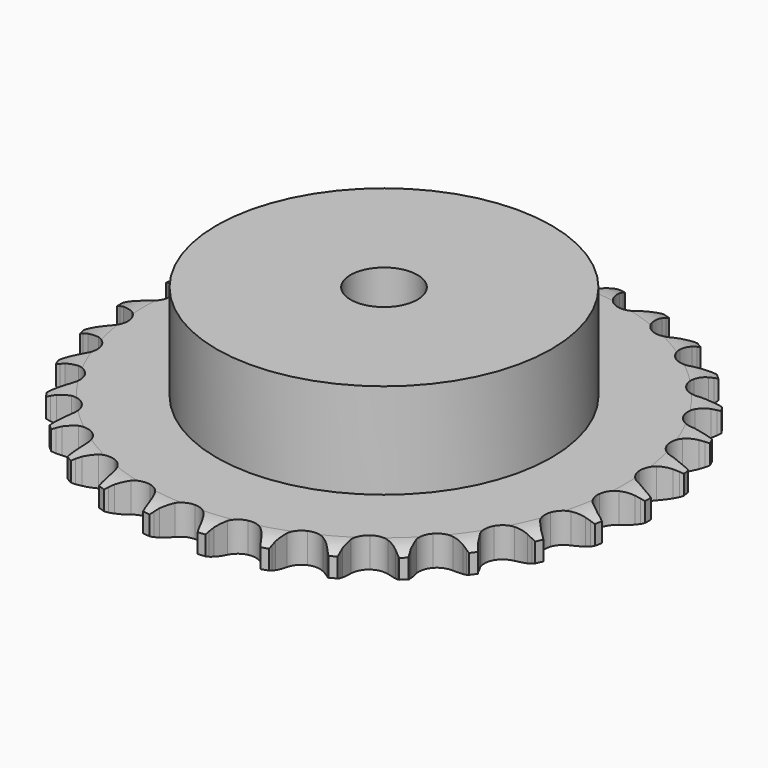
from build123d import *

# Parameters (mm, degrees)
PAD_DEPTH         = 7.2
SKETCH001_R       = 40
PAD001_DEPTH      = 30
SKETCH002_R       = 8
POCKET_DEPTH      = 0.001
POCKET_DEPTH_BACK = 30.001


with BuildPart() as part:
    # Sprocket → Pad (new body)
    with BuildSketch(Plane.XY):
        with BuildLine():
            ThreePointArc((-6.747514, 64.19831), (-5.953185, 63.151221), (-5.370742, 61.973039))
            Line((-5.370742, 61.973039), (-4.955769, 60.884432))
            ThreePointArc((-4.955769, 60.884432), (-4.297005, 59.465248), (-3.445613, 58.152548))
            ThreePointArc((-3.445613, 58.152548), (-1.925065, 56.887921), (0, 56.434629))
            ThreePointArc((0, 56.434629), (1.925065, 56.887921), (3.445613, 58.152548))
            ThreePointArc((3.445613, 58.152548), (4.297005, 59.465248), (4.955769, 60.884432))
            Line((4.955769, 60.884432), (5.370742, 61.973039))
            ThreePointArc((5.370742, 61.973039), (5.953185, 63.151221), (6.747514, 64.19831))
            ThreePointArc((6.747514, 64.19831), (7.306783, 63.008952), (7.631541, 61.735419))
            Line((7.631541, 61.735419), (7.811112, 60.584324))
            ThreePointArc((7.811112, 60.584324), (8.160415, 59.059188), (8.720276, 57.598159))
            ThreePointArc((8.720276, 57.598159), (9.944666, 56.045027), (11.733419, 55.201397))
            ThreePointArc((11.733419, 55.201397), (13.710661, 55.24454), (15.460913, 56.165392))
            Line((15.460913, 56.165392), (17.506058, 58.523599))
            ThreePointArc((17.506058, 58.523599), (17.809357, 59.021153), (18.138297, 59.502139))
            ThreePointArc((18.138297, 59.502139), (18.952971, 60.533479), (19.947644, 61.392536))
            ThreePointArc((19.947644, 61.392536), (20.24741, 60.11289), (20.300289, 58.799666))
            Line((20.300289, 58.799666), (20.23661, 57.636389))
            ThreePointArc((20.23661, 57.636389), (20.261186, 56.071957), (20.505048, 54.526453))
            ThreePointArc((20.505048, 54.526453), (21.379768, 52.752696), (22.954031, 51.555599))
            ThreePointArc((22.954031, 51.555599), (24.897036, 51.186708), (26.800496, 51.723539))
            Line((26.800496, 51.723539), (29.291249, 53.605004))
            ThreePointArc((29.291249, 53.605004), (29.691367, 54.028626), (30.113122, 54.430711))
            ThreePointArc((30.113122, 54.430711), (31.124421, 55.270133), (32.275966, 55.903613))
            ThreePointArc((32.275966, 55.903613), (32.303129, 54.589606), (32.081817, 53.294084))
            Line((32.081817, 53.294084), (31.77767, 52.169468))
            ThreePointArc((31.77767, 52.169468), (31.476446, 50.634113), (31.393651, 49.07168))
            ThreePointArc((31.393651, 49.07168), (31.880471, 47.15482), (33.171442, 45.656574))
            ThreePointArc((33.171442, 45.656574), (34.995291, 44.89177), (36.96877, 45.021119))
            Line((36.96877, 45.021119), (39.796272, 46.343613))
            ThreePointArc((39.796272, 46.343613), (40.275723, 46.674788), (40.77186, 46.980399))
            ThreePointArc((40.77186, 46.980399), (41.935584, 47.591217), (43.193674, 47.971434))
            ThreePointArc((43.193674, 47.971434), (42.947045, 46.680494), (42.461216, 45.459296))
            Line((42.461216, 45.459296), (41.929894, 44.422491))
            ThreePointArc((41.929894, 44.422491), (41.316034, 42.983315), (40.9102, 41.472239))
            ThreePointArc((40.9102, 41.472239), (40.987845, 39.496051), (41.939102, 37.762137))
            ThreePointArc((41.939102, 37.762137), (43.564084, 36.634847), (45.52133, 36.35106))
            Line((45.52133, 36.35106), (48.562007, 37.056783))
            ThreePointArc((48.562007, 37.056783), (49.099836, 37.281038), (49.648671, 37.476818))
            ThreePointArc((49.648671, 37.476818), (50.913962, 37.832336), (52.22361, 37.942674))
            ThreePointArc((52.22361, 37.942674), (51.713969, 36.73122), (50.984855, 35.637718))
            Line((50.984855, 35.637718), (50.249581, 34.734038))
            ThreePointArc((50.249581, 34.734038), (49.349913, 33.45394), (48.638777, 32.060262))
            ThreePointArc((48.638777, 32.060262), (48.303853, 30.111116), (48.873822, 28.217314))
            ThreePointArc((48.873822, 28.217314), (50.228917, 26.776806), (52.08439, 26.092286))
            Line((52.08439, 26.092286), (55.205349, 26.150395))
            ThreePointArc((55.205349, 26.150395), (55.77805, 26.257929), (56.355597, 26.335321))
            ThreePointArc((56.355597, 26.335321), (57.667154, 26.420001), (58.971124, 26.255636))
            ThreePointArc((58.971124, 26.255636), (58.220745, 25.176616), (57.280212, 24.258601))
            Line((57.280212, 24.258601), (56.373119, 23.52754))
            ThreePointArc((56.373119, 23.52754), (55.226964, 22.462467), (54.241607, 21.247098))
            ThreePointArc((54.241607, 21.247098), (53.50875, 19.41018), (53.672521, 17.439259))
            ThreePointArc((53.672521, 17.439259), (54.698506, 15.748489), (56.371113, 14.693153))
            Line((56.371113, 14.693153), (59.435953, 14.101108))
            ThreePointArc((59.435953, 14.101108), (60.018496, 14.087221), (60.599513, 14.042844))
            ThreePointArc((60.599513, 14.042844), (61.900016, 13.852985), (63.141318, 13.421101))
            ThreePointArc((63.141318, 13.421101), (62.182995, 12.521673), (61.072149, 11.819267))
            Line((61.072149, 11.819267), (60.032882, 11.292776))
            ThreePointArc((60.032882, 11.292776), (58.690332, 10.489277), (57.473818, 9.505334))
            ThreePointArc((57.473818, 9.505334), (56.375059, 7.860926), (56.125474, 5.899025))
            ThreePointArc((56.125474, 5.899025), (56.777507, 4.031888), (58.194147, 2.651859))
            Line((58.194147, 2.651859), (61.06892, 1.435536))
            ThreePointArc((61.06892, 1.435536), (61.635846, 1.300834), (62.19494, 1.136626))
            ThreePointArc((62.19494, 1.136626), (63.427549, 0.680527), (64.551932, 0))
            ThreePointArc((64.551932, 0), (63.427549, -0.680527), (62.19494, -1.136626))
            Line((62.19494, -1.136626), (61.06892, -1.435536))
            ThreePointArc((61.06892, -1.435536), (59.588651, -1.942345), (58.194147, -2.651859))
            ThreePointArc((58.194147, -2.651859), (56.777507, -4.031888), (56.125474, -5.899025))
            ThreePointArc((56.125474, -5.899025), (56.375059, -7.860926), (57.473818, -9.505334))
            Line((57.473818, -9.505334), (60.032882, -11.292776))
            ThreePointArc((60.032882, -11.292776), (60.559414, -11.542405), (61.072149, -11.819267))
            ThreePointArc((61.072149, -11.819267), (62.182995, -12.521673), (63.141318, -13.421101))
            ThreePointArc((63.141318, -13.421101), (61.900016, -13.852985), (60.599513, -14.042844))
            Line((60.599513, -14.042844), (59.435953, -14.101108))
            ThreePointArc((59.435953, -14.101108), (57.88266, -14.289077), (56.371113, -14.693153))
            ThreePointArc((56.371113, -14.693153), (54.698506, -15.748489), (53.672521, -17.439259))
            ThreePointArc((53.672521, -17.439259), (53.50875, -19.41018), (54.241607, -21.247098))
            Line((54.241607, -21.247098), (56.373119, -23.52754))
            ThreePointArc((56.373119, -23.52754), (56.836244, -23.881186), (57.280212, -24.258601))
            ThreePointArc((57.280212, -24.258601), (58.220745, -25.176616), (58.971124, -26.255636))
            ThreePointArc((58.971124, -26.255636), (57.667154, -26.420001), (56.355597, -26.335321))
            Line((56.355597, -26.335321), (55.205349, -26.150395))
            ThreePointArc((55.205349, -26.150395), (53.646919, -26.011308), (52.08439, -26.092286))
            ThreePointArc((52.08439, -26.092286), (50.228917, -26.776806), (48.873822, -28.217314))
            ThreePointArc((48.873822, -28.217314), (48.303853, -30.111116), (48.638777, -32.060262))
            Line((48.638777, -32.060262), (50.249581, -34.734038))
            ThreePointArc((50.249581, -34.734038), (50.629058, -35.176244), (50.984855, -35.637718))
            ThreePointArc((50.984855, -35.637718), (51.713969, -36.73122), (52.22361, -37.942674))
            ThreePointArc((52.22361, -37.942674), (50.913962, -37.832336), (49.648671, -37.476818))
            Line((49.648671, -37.476818), (48.562007, -37.056783))
            ThreePointArc((48.562007, -37.056783), (47.06655, -36.59672), (45.52133, -36.35106))
            ThreePointArc((45.52133, -36.35106), (43.564084, -36.634847), (41.939102, -37.762137))
            ThreePointArc((41.939102, -37.762137), (40.987845, -39.496051), (40.9102, -41.472239))
            Line((40.9102, -41.472239), (41.929894, -44.422491))
            ThreePointArc((41.929894, -44.422491), (42.209139, -44.933932), (42.461216, -45.459296))
            ThreePointArc((42.461216, -45.459296), (42.947045, -46.680494), (43.193674, -47.971434))
            ThreePointArc((43.193674, -47.971434), (41.935584, -47.591217), (40.77186, -46.980399))
            Line((40.77186, -46.980399), (39.796272, -46.343613))
            ThreePointArc((39.796272, -46.343613), (38.429146, -45.58268), (36.96877, -45.021119))
            ThreePointArc((36.96877, -45.021119), (34.995291, -44.89177), (33.171442, -45.656574))
            ThreePointArc((33.171442, -45.656574), (31.880471, -47.15482), (31.393651, -49.07168))
            Line((31.393651, -49.07168), (31.77767, -52.169468))
            ThreePointArc((31.77767, -52.169468), (31.944479, -52.727791), (32.081817, -53.294084))
            ThreePointArc((32.081817, -53.294084), (32.303129, -54.589606), (32.275966, -55.903613))
            ThreePointArc((32.275966, -55.903613), (31.124421, -55.270133), (30.113122, -54.430711))
            Line((30.113122, -54.430711), (29.291249, -53.605004))
            ThreePointArc((29.291249, -53.605004), (28.112205, -52.576458), (26.800496, -51.723539))
            ThreePointArc((26.800496, -51.723539), (24.897036, -51.186708), (22.954031, -51.555599))
            ThreePointArc((22.954031, -51.555599), (21.379768, -52.752696), (20.505048, -54.526453))
            Line((20.505048, -54.526453), (20.23661, -57.636389))
            ThreePointArc((20.23661, -57.636389), (20.283691, -58.217193), (20.300289, -58.799666))
            ThreePointArc((20.300289, -58.799666), (20.24741, -60.11289), (19.947644, -61.392536))
            ThreePointArc((19.947644, -61.392536), (18.952971, -60.533479), (18.138297, -59.502139))
            Line((18.138297, -59.502139), (17.506058, -58.523599))
            ThreePointArc((17.506058, -58.523599), (16.566626, -57.272392), (15.460913, -56.165392))
            ThreePointArc((15.460913, -56.165392), (13.710661, -55.24454), (11.733419, -55.201397))
            ThreePointArc((11.733419, -55.201397), (9.944666, -56.045027), (8.720276, -57.598159))
            Line((8.720276, -57.598159), (7.811112, -60.584324))
            ThreePointArc((7.811112, -60.584324), (7.736409, -61.162224), (7.631541, -61.735419))
            ThreePointArc((7.631541, -61.735419), (7.306783, -63.008952), (6.747514, -64.19831))
            ThreePointArc((6.747514, -64.19831), (5.953185, -63.151221), (5.370742, -61.973039))
            Line((5.370742, -61.973039), (4.955769, -60.884432))
            ThreePointArc((4.955769, -60.884432), (4.297005, -59.465248), (3.445613, -58.152548))
            ThreePointArc((3.445613, -58.152548), (1.925065, -56.887921), (0, -56.434629))
            ThreePointArc((0, -56.434629), (-1.925065, -56.887921), (-3.445613, -58.152548))
            Line((-3.445613, -58.152548), (-4.955769, -60.884432))
            ThreePointArc((-4.955769, -60.884432), (-5.148992, -61.434173), (-5.370742, -61.973039))
            ThreePointArc((-5.370742, -61.973039), (-5.953185, -63.151221), (-6.747514, -64.19831))
            ThreePointArc((-6.747514, -64.19831), (-7.306783, -63.008952), (-7.631541, -61.735419))
            Line((-7.631541, -61.735419), (-7.811112, -60.584324))
            ThreePointArc((-7.811112, -60.584324), (-8.160415, -59.059188), (-8.720276, -57.598159))
            ThreePointArc((-8.720276, -57.598159), (-9.944666, -56.045027), (-11.733419, -55.201397))
            ThreePointArc((-11.733419, -55.201397), (-13.710661, -55.24454), (-15.460913, -56.165392))
            Line((-15.460913, -56.165392), (-17.506058, -58.523599))
            ThreePointArc((-17.506058, -58.523599), (-17.809357, -59.021153), (-18.138297, -59.502139))
            ThreePointArc((-18.138297, -59.502139), (-18.952971, -60.533479), (-19.947644, -61.392536))
            ThreePointArc((-19.947644, -61.392536), (-20.24741, -60.11289), (-20.300289, -58.799666))
            Line((-20.300289, -58.799666), (-20.23661, -57.636389))
            ThreePointArc((-20.23661, -57.636389), (-20.261186, -56.071957), (-20.505048, -54.526453))
            ThreePointArc((-20.505048, -54.526453), (-21.379768, -52.752696), (-22.954031, -51.555599))
            ThreePointArc((-22.954031, -51.555599), (-24.897036, -51.186708), (-26.800496, -51.723539))
            Line((-26.800496, -51.723539), (-29.291249, -53.605004))
            ThreePointArc((-29.291249, -53.605004), (-29.691367, -54.028626), (-30.113122, -54.430711))
            ThreePointArc((-30.113122, -54.430711), (-31.124421, -55.270133), (-32.275966, -55.903613))
            ThreePointArc((-32.275966, -55.903613), (-32.303129, -54.589606), (-32.081817, -53.294084))
            Line((-32.081817, -53.294084), (-31.77767, -52.169468))
            ThreePointArc((-31.77767, -52.169468), (-31.476446, -50.634113), (-31.393651, -49.07168))
            ThreePointArc((-31.393651, -49.07168), (-31.880471, -47.15482), (-33.171442, -45.656574))
            ThreePointArc((-33.171442, -45.656574), (-34.995291, -44.89177), (-36.96877, -45.021119))
            Line((-36.96877, -45.021119), (-39.796272, -46.343613))
            ThreePointArc((-39.796272, -46.343613), (-40.275723, -46.674788), (-40.77186, -46.980399))
            ThreePointArc((-40.77186, -46.980399), (-41.935584, -47.591217), (-43.193674, -47.971434))
            ThreePointArc((-43.193674, -47.971434), (-42.947045, -46.680494), (-42.461216, -45.459296))
            Line((-42.461216, -45.459296), (-41.929894, -44.422491))
            ThreePointArc((-41.929894, -44.422491), (-41.316034, -42.983315), (-40.9102, -41.472239))
            ThreePointArc((-40.9102, -41.472239), (-40.987845, -39.496051), (-41.939102, -37.762137))
            ThreePointArc((-41.939102, -37.762137), (-43.564084, -36.634847), (-45.52133, -36.35106))
            Line((-45.52133, -36.35106), (-48.562007, -37.056783))
            ThreePointArc((-48.562007, -37.056783), (-49.099836, -37.281038), (-49.648671, -37.476818))
            ThreePointArc((-49.648671, -37.476818), (-50.913962, -37.832336), (-52.22361, -37.942674))
            ThreePointArc((-52.22361, -37.942674), (-51.713969, -36.73122), (-50.984855, -35.637718))
            Line((-50.984855, -35.637718), (-50.249581, -34.734038))
            ThreePointArc((-50.249581, -34.734038), (-49.349913, -33.45394), (-48.638777, -32.060262))
            ThreePointArc((-48.638777, -32.060262), (-48.303853, -30.111116), (-48.873822, -28.217314))
            ThreePointArc((-48.873822, -28.217314), (-50.228917, -26.776806), (-52.08439, -26.092286))
            Line((-52.08439, -26.092286), (-55.205349, -26.150395))
            ThreePointArc((-55.205349, -26.150395), (-55.77805, -26.257929), (-56.355597, -26.335321))
            ThreePointArc((-56.355597, -26.335321), (-57.667154, -26.420001), (-58.971124, -26.255636))
            ThreePointArc((-58.971124, -26.255636), (-58.220745, -25.176616), (-57.280212, -24.258601))
            Line((-57.280212, -24.258601), (-56.373119, -23.52754))
            ThreePointArc((-56.373119, -23.52754), (-55.226964, -22.462467), (-54.241607, -21.247098))
            ThreePointArc((-54.241607, -21.247098), (-53.50875, -19.41018), (-53.672521, -17.439259))
            ThreePointArc((-53.672521, -17.439259), (-54.698506, -15.748489), (-56.371113, -14.693153))
            Line((-56.371113, -14.693153), (-59.435953, -14.101108))
            ThreePointArc((-59.435953, -14.101108), (-60.018496, -14.087221), (-60.599513, -14.042844))
            ThreePointArc((-60.599513, -14.042844), (-61.900016, -13.852985), (-63.141318, -13.421101))
            ThreePointArc((-63.141318, -13.421101), (-62.182995, -12.521673), (-61.072149, -11.819267))
            Line((-61.072149, -11.819267), (-60.032882, -11.292776))
            ThreePointArc((-60.032882, -11.292776), (-58.690332, -10.489277), (-57.473818, -9.505334))
            ThreePointArc((-57.473818, -9.505334), (-56.375059, -7.860926), (-56.125474, -5.899025))
            ThreePointArc((-56.125474, -5.899025), (-56.777507, -4.031888), (-58.194147, -2.651859))
            Line((-58.194147, -2.651859), (-61.06892, -1.435536))
            ThreePointArc((-61.06892, -1.435536), (-61.635846, -1.300834), (-62.19494, -1.136626))
            ThreePointArc((-62.19494, -1.136626), (-63.427549, -0.680527), (-64.551932, 0))
            ThreePointArc((-64.551932, 0), (-63.427549, 0.680527), (-62.19494, 1.136626))
            Line((-62.19494, 1.136626), (-61.06892, 1.435536))
            ThreePointArc((-61.06892, 1.435536), (-59.588651, 1.942345), (-58.194147, 2.651859))
            ThreePointArc((-58.194147, 2.651859), (-56.777507, 4.031888), (-56.125474, 5.899025))
            ThreePointArc((-56.125474, 5.899025), (-56.375059, 7.860926), (-57.473818, 9.505334))
            Line((-57.473818, 9.505334), (-60.032882, 11.292776))
            ThreePointArc((-60.032882, 11.292776), (-60.559414, 11.542405), (-61.072149, 11.819267))
            ThreePointArc((-61.072149, 11.819267), (-62.182995, 12.521673), (-63.141318, 13.421101))
            ThreePointArc((-63.141318, 13.421101), (-61.900016, 13.852985), (-60.599513, 14.042844))
            Line((-60.599513, 14.042844), (-59.435953, 14.101108))
            ThreePointArc((-59.435953, 14.101108), (-57.88266, 14.289077), (-56.371113, 14.693153))
            ThreePointArc((-56.371113, 14.693153), (-54.698506, 15.748489), (-53.672521, 17.439259))
            ThreePointArc((-53.672521, 17.439259), (-53.50875, 19.41018), (-54.241607, 21.247098))
            Line((-54.241607, 21.247098), (-56.373119, 23.52754))
            ThreePointArc((-56.373119, 23.52754), (-56.836244, 23.881186), (-57.280212, 24.258601))
            ThreePointArc((-57.280212, 24.258601), (-58.220745, 25.176616), (-58.971124, 26.255636))
            ThreePointArc((-58.971124, 26.255636), (-57.667154, 26.420001), (-56.355597, 26.335321))
            Line((-56.355597, 26.335321), (-55.205349, 26.150395))
            ThreePointArc((-55.205349, 26.150395), (-53.646919, 26.011308), (-52.08439, 26.092286))
            ThreePointArc((-52.08439, 26.092286), (-50.228917, 26.776806), (-48.873822, 28.217314))
            ThreePointArc((-48.873822, 28.217314), (-48.303853, 30.111116), (-48.638777, 32.060262))
            Line((-48.638777, 32.060262), (-50.249581, 34.734038))
            ThreePointArc((-50.249581, 34.734038), (-50.629058, 35.176244), (-50.984855, 35.637718))
            ThreePointArc((-50.984855, 35.637718), (-51.713969, 36.73122), (-52.22361, 37.942674))
            ThreePointArc((-52.22361, 37.942674), (-50.913962, 37.832336), (-49.648671, 37.476818))
            Line((-49.648671, 37.476818), (-48.562007, 37.056783))
            ThreePointArc((-48.562007, 37.056783), (-47.06655, 36.59672), (-45.52133, 36.35106))
            ThreePointArc((-45.52133, 36.35106), (-43.564084, 36.634847), (-41.939102, 37.762137))
            ThreePointArc((-41.939102, 37.762137), (-40.987845, 39.496051), (-40.9102, 41.472239))
            Line((-40.9102, 41.472239), (-41.929894, 44.422491))
            ThreePointArc((-41.929894, 44.422491), (-42.209139, 44.933932), (-42.461216, 45.459296))
            ThreePointArc((-42.461216, 45.459296), (-42.947045, 46.680494), (-43.193674, 47.971434))
            ThreePointArc((-43.193674, 47.971434), (-41.935584, 47.591217), (-40.77186, 46.980399))
            Line((-40.77186, 46.980399), (-39.796272, 46.343613))
            ThreePointArc((-39.796272, 46.343613), (-38.429146, 45.58268), (-36.96877, 45.021119))
            ThreePointArc((-36.96877, 45.021119), (-34.995291, 44.89177), (-33.171442, 45.656574))
            ThreePointArc((-33.171442, 45.656574), (-31.880471, 47.15482), (-31.393651, 49.07168))
            Line((-31.393651, 49.07168), (-31.77767, 52.169468))
            ThreePointArc((-31.77767, 52.169468), (-31.944479, 52.727791), (-32.081817, 53.294084))
            ThreePointArc((-32.081817, 53.294084), (-32.303129, 54.589606), (-32.275966, 55.903613))
            ThreePointArc((-32.275966, 55.903613), (-31.124421, 55.270133), (-30.113122, 54.430711))
            Line((-30.113122, 54.430711), (-29.291249, 53.605004))
            ThreePointArc((-29.291249, 53.605004), (-28.112205, 52.576458), (-26.800496, 51.723539))
            ThreePointArc((-26.800496, 51.723539), (-24.897036, 51.186708), (-22.954031, 51.555599))
            ThreePointArc((-22.954031, 51.555599), (-21.379768, 52.752696), (-20.505048, 54.526453))
            Line((-20.505048, 54.526453), (-20.23661, 57.636389))
            ThreePointArc((-20.23661, 57.636389), (-20.283691, 58.217193), (-20.300289, 58.799666))
            ThreePointArc((-20.300289, 58.799666), (-20.24741, 60.11289), (-19.947644, 61.392536))
            ThreePointArc((-19.947644, 61.392536), (-18.952971, 60.533479), (-18.138297, 59.502139))
            Line((-18.138297, 59.502139), (-17.506058, 58.523599))
            ThreePointArc((-17.506058, 58.523599), (-16.566626, 57.272392), (-15.460913, 56.165392))
            ThreePointArc((-15.460913, 56.165392), (-13.710661, 55.24454), (-11.733419, 55.201397))
            ThreePointArc((-11.733419, 55.201397), (-9.944666, 56.045027), (-8.720276, 57.598159))
            Line((-8.720276, 57.598159), (-7.811112, 60.584324))
            ThreePointArc((-7.811112, 60.584324), (-7.736409, 61.162224), (-7.631541, 61.735419))
            ThreePointArc((-7.631541, 61.735419), (-7.306783, 63.008952), (-6.747514, 64.19831))
        make_face()
    extrude(amount=PAD_DEPTH)

    # Sketch → Groove (revolve, cut)
    with BuildSketch(Plane.XZ):
        with BuildLine():
            Line((57.383431, 0), (63.05, 0))
            Line((68.716569, 0), (63.05, 0))
            Line((68.716569, 7.2), (68.716569, 0))
            Line((63.05, 7.2), (68.716569, 7.2))
            Line((57.383431, 7.2), (63.05, 7.2))
            ThreePointArc((63.05, 5.9), (60.29032, 6.870833), (57.383431, 7.2))
            Line((63.05, 1.3), (63.05, 5.9))
            ThreePointArc((57.383431, 0), (60.29032, 0.329167), (63.05, 1.3))
        make_face()
    revolve(axis=Axis((0, 0, 0), (0, 0, 1)), mode=Mode.SUBTRACT)

    # Sketch001 → Pad001 (join)
    with BuildSketch(Plane.XY):
        Circle(SKETCH001_R)
    extrude(amount=PAD001_DEPTH)

    # Sketch002 → Pocket (cut, two sides)
    with BuildSketch(Plane.XY) as pocket_sk:
        Circle(SKETCH002_R)
    extrude(amount=-POCKET_DEPTH, mode=Mode.SUBTRACT)
    extrude(pocket_sk.sketch, amount=POCKET_DEPTH_BACK, mode=Mode.SUBTRACT)


solid = part.part
